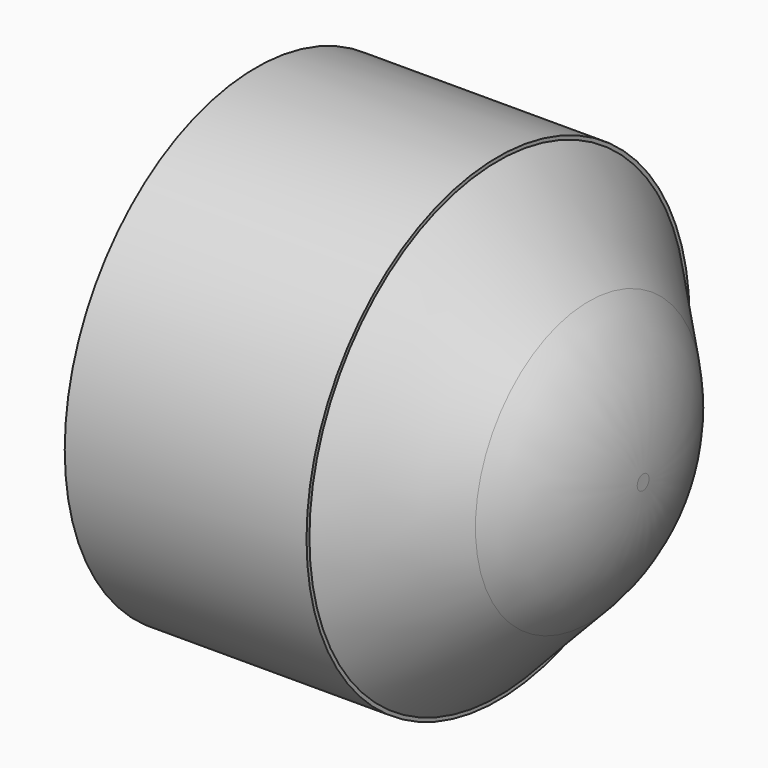
from build123d import *

# Parameters (mm, degrees)
SKETCH020_R     = 9.9
PAD011_DEPTH    = 10
SKETCH021_R     = 9.75
PAD012_DEPTH    = 6
PAD012_TAPER    = 46
SKETCH022_R     = 5.09902
POCKET005_DEPTH = 25
FILLET_R        = 8


with BuildPart() as part:
    # Sketch020 → Pad011 (new body)
    with BuildSketch(Plane.YZ.offset(20)):
        Circle(SKETCH020_R)
    extrude(amount=PAD011_DEPTH)

    # Sketch021 → Pad012 (join)
    with BuildSketch(Plane.YZ.offset(30)):
        Circle(SKETCH021_R)
    extrude(amount=PAD012_DEPTH, taper=PAD012_TAPER)

    # Sketch022 → Pocket005 (cut)
    with BuildSketch(Plane.YZ):
        Circle(SKETCH022_R)
    extrude(amount=POCKET005_DEPTH, mode=Mode.SUBTRACT)

    # Fillet
    fillet_edges = [part.edges().sort_by_distance(p)[0] for p in [
        (36, -3.536818, 0),
    ]]
    fillet(fillet_edges, radius=FILLET_R)


with BuildPart() as part_1:
    # Body005 placement: moved
    add(part.part.moved(Location((0, 70, 20))))


solid = part_1.part
